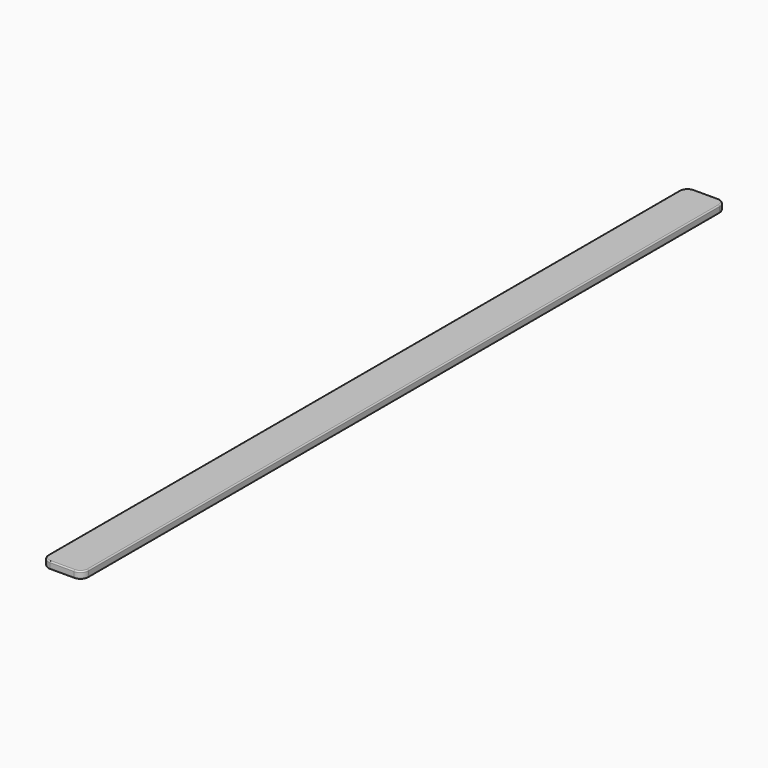
from build123d import *

# Parameters (mm, degrees)
F0_W     = 100
F0_H     = 18
F1_DEPTH = 2000
F3_R     = 20
F4_R     = 20
F5_R     = 3


with BuildPart() as f1:
    # F0 (on Front) → F1 (new body)
    with BuildSketch(Plane.XZ):
        with Locations((50, 9)):
            Rectangle(F0_W, F0_H)
    extrude(amount=F1_DEPTH)

    # F3
    f3_edges = [f1.edges().sort_by_distance(p)[0] for p in [
        (100, 0, 9),
        (0, 0, 9),
    ]]
    fillet(f3_edges, radius=F3_R)

    # F4
    f4_edges = [f1.edges().sort_by_distance(p)[0] for p in [
        (100, -2000, 9),
        (0, -2000, 9),
    ]]
    fillet(f4_edges, radius=F4_R)

    # F5
    f5_edges = [f1.edges().sort_by_distance(p)[0] for p in [
        (100, -1000, 18),
        (0, -1000, 0),
        (5.857864, -1994.142136, 0),
        (5.857864, -5.857864, 0),
        (50, -2000, 0),
        (50, 0, 0),
        (94.142136, -1994.142136, 0),
        (94.142136, -5.857864, 0),
        (100, -1000, 0),
    ]]
    fillet(f5_edges, radius=F5_R)


solid = f1.part
